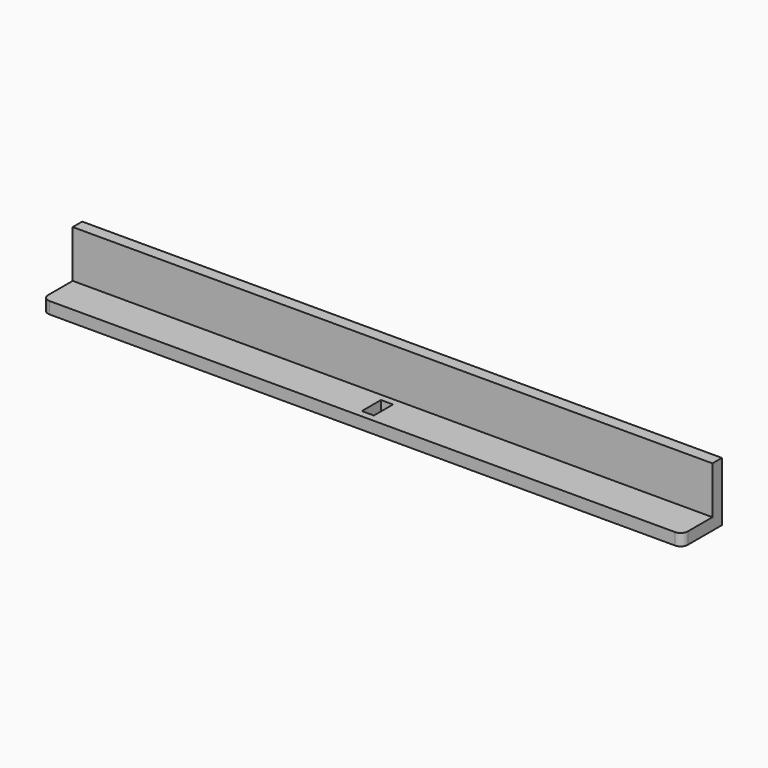
from build123d import *

# Parameters (mm, degrees)
F0_W     = 270
F0_H     = 5
F1_DEPTH = 20
F0_W_2   = 5.1
F0_H_2   = 10.1
F2_DEPTH = 5


with BuildPart() as f1:
    # F0 (on Top) → F1 (new body)
    with BuildSketch(Plane.XY):
        with Locations((0, 10.5)):
            Rectangle(F0_W, F0_H)
    extrude(amount=F1_DEPTH)

    # F0 (on Top) → F2 (join)
    with BuildSketch(Plane.XY):
        with BuildLine():
            ThreePointArc((-135, -5), (-134.12132, -7.12132), (-132, -8))
            Line((-132, -8), (132, -8))
            ThreePointArc((132, -8), (134.12132, -7.12132), (135, -5))
            Line((135, -5), (135, 8))
            Line((135, 8), (-135, 8))
            Line((-135, 8), (-135, -5))
        make_face()
        Rectangle(F0_W_2, F0_H_2, mode=Mode.SUBTRACT)
        with Locations((0, 10.5)):
            Rectangle(F0_W, F0_H)
    extrude(amount=-F2_DEPTH)


solid = f1.part
